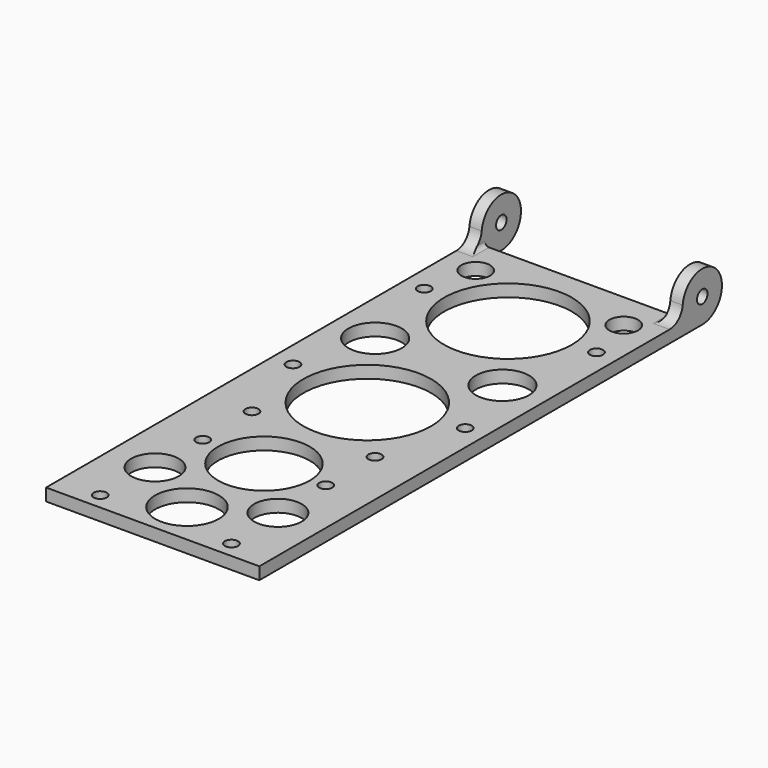
from build123d import *

# Parameters (mm, degrees)
SKETCH003_W   = 46
SKETCH003_H   = 10
PAD003_DEPTH  = 5
SKETCH001_R   = 6
SKETCH001_R_2 = 1.6
PAD001_DEPTH  = 3
SKETCH_W      = 52
SKETCH_H      = 135
SKETCH_R      = 1.6
SKETCH_R_2    = 15.574954
SKETCH_R_3    = 11.186667
SKETCH_R_4    = 6.490241
SKETCH_R_5    = 3.5
SKETCH_R_6    = 7.770751
SKETCH_R_7    = 5.800756
PAD_DEPTH     = 3
SKETCH002_R   = 6
SKETCH002_R_2 = 1.6
PAD002_DEPTH  = 3
FILLET_R      = 4
FILLET001_R   = 4
FILLET002_R   = 1
FILLET003_R   = 1


with BuildPart() as pad003:
    # Sketch003 → Pad003 (new body)
    with BuildSketch(Plane.XY):
        with Locations((26, 135)):
            Rectangle(SKETCH003_W, SKETCH003_H)
    extrude(amount=PAD003_DEPTH)


with BuildPart() as pad001:
    # Sketch001 → Pad001 (new body)
    with BuildSketch(Plane(origin=(0, 135, 0), x_dir=(0, 1, 0), z_dir=(1, 0, 0))):
        with Locations((0, 6)):
            Circle(SKETCH001_R)
        with Locations((0, 6)):
            Circle(SKETCH001_R_2, mode=Mode.SUBTRACT)
    extrude(amount=PAD001_DEPTH)


with BuildPart() as fusion:
    # Sketch → Pad (new body)
    with BuildSketch(Plane.XY):
        with Locations((26, 67.5)):
            Rectangle(SKETCH_W, SKETCH_H)
        with Locations((10, 4)):
            Circle(SKETCH_R, mode=Mode.SUBTRACT)
        with Locations((42, 4)):
            Circle(SKETCH_R, mode=Mode.SUBTRACT)
        with Locations((11, 34)):
            Circle(SKETCH_R, mode=Mode.SUBTRACT)
        with Locations((41, 34)):
            Circle(SKETCH_R, mode=Mode.SUBTRACT)
        with Locations((11, 49)):
            Circle(SKETCH_R, mode=Mode.SUBTRACT)
        with Locations((41, 49)):
            Circle(SKETCH_R, mode=Mode.SUBTRACT)
        with Locations((5, 69)):
            Circle(SKETCH_R, mode=Mode.SUBTRACT)
        with Locations((47, 69)):
            Circle(SKETCH_R, mode=Mode.SUBTRACT)
        with Locations((5, 109)):
            Circle(SKETCH_R, mode=Mode.SUBTRACT)
        with Locations((47, 109)):
            Circle(SKETCH_R, mode=Mode.SUBTRACT)
        with Locations((25.822891, 108.506721)):
            Circle(SKETCH_R_2, mode=Mode.SUBTRACT)
        with Locations((25.87958, 65.548828)):
            Circle(SKETCH_R_2, mode=Mode.SUBTRACT)
        with Locations((26.231028, 33.613125)):
            Circle(SKETCH_R_3, mode=Mode.SUBTRACT)
        with Locations((10.477721, 87.19722)):
            Circle(SKETCH_R_4, mode=Mode.SUBTRACT)
        with Locations((41.522279, 87.19722)):
            Circle(SKETCH_R_4, mode=Mode.SUBTRACT)
        with Locations((7.956594, 121)):
            Circle(SKETCH_R_5, mode=Mode.SUBTRACT)
        with Locations((44.043406, 121)):
            Circle(SKETCH_R_5, mode=Mode.SUBTRACT)
        with Locations((26, 10.44999)):
            Circle(SKETCH_R_6, mode=Mode.SUBTRACT)
        with Locations((11.015624, 19.428881)):
            Circle(SKETCH_R_7, mode=Mode.SUBTRACT)
        with Locations((40.984376, 19.428881)):
            Circle(SKETCH_R_7, mode=Mode.SUBTRACT)
    extrude(amount=PAD_DEPTH)

    # Fusion: union Pad001
    add(pad001.part)


with BuildPart() as fillet003:
    # Sketch002 → Pad002 (new body)
    with BuildSketch(Plane(origin=(49, 135, 0), x_dir=(0, 1, 0), z_dir=(1, 0, 0))):
        with Locations((0, 6)):
            Circle(SKETCH002_R)
        with Locations((0, 6)):
            Circle(SKETCH002_R_2, mode=Mode.SUBTRACT)
    extrude(amount=PAD002_DEPTH)

    # Fusion001: union Fusion
    add(fusion.part)

    # Fillet
    fillet_edges = [fillet003.edges().sort_by_distance(p)[0] for p in [
        (1.5, 129.803848, 3),
    ]]
    fillet(fillet_edges, radius=FILLET_R)

    # Fillet001
    fillet001_edges = [fillet003.edges().sort_by_distance(p)[0] for p in [
        (50.5, 129.803848, 3),
    ]]
    fillet(fillet001_edges, radius=FILLET001_R)

    # Cut: cut Pad003
    add(pad003.part, mode=Mode.SUBTRACT)

    # Fillet002
    fillet002_edges = [fillet003.edges().sort_by_distance(p)[0] for p in [
        (3, 127.426987, 3),
    ]]
    fillet(fillet002_edges, radius=FILLET002_R)

    # Fillet003
    fillet003_edges = [fillet003.edges().sort_by_distance(p)[0] for p in [
        (49, 127.426987, 3),
    ]]
    fillet(fillet003_edges, radius=FILLET003_R)


solid = fillet003.part
